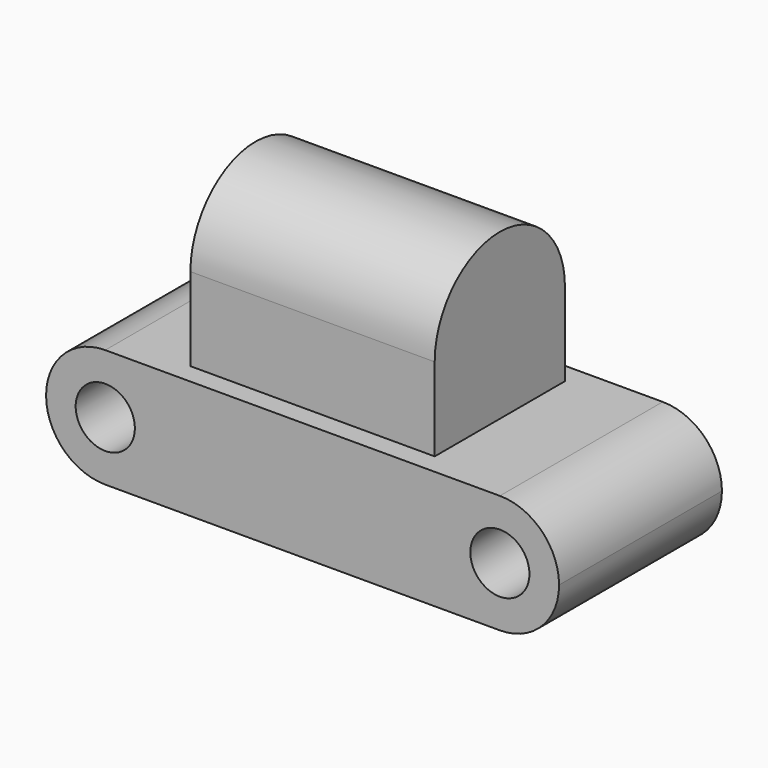
from build123d import *

# Parameters (mm, degrees)
F0_R     = 4.61757
F1_DEPTH = 31.75
F3_DEPTH = 12.9794
F4_R     = 12.697273
F5_DEPTH = 38.1


with BuildPart() as f1:
    # F0 (on Front) → F1 (new body)
    with BuildSketch(Plane.XZ):
        with BuildLine():
            Line((-61.54567, 0), (0, 0))
            ThreePointArc((0, 0), (-9.233622, 9.233622), (0, 18.467244))
            Line((0, 18.467244), (-61.54567, 18.467244))
            ThreePointArc((-61.54567, 18.467244), (-70.779292, 9.233622), (-61.54567, 0))
        make_face()
        with Locations((-61.54567, 9.233622)):
            Circle(F0_R, mode=Mode.SUBTRACT)
        with BuildLine():
            ThreePointArc((4.611006, 9.233622), (3.260474, 12.494096), (0, 13.844628))
            ThreePointArc((0, 13.844628), (-3.260474, 5.973148), (4.611006, 9.233622))
        make_face()
        with BuildLine():
            ThreePointArc((0, 18.467244), (-9.233622, 9.233622), (0, 0))
            ThreePointArc((0, 0), (6.529157, 2.704465), (9.233622, 9.233622))
            ThreePointArc((9.233622, 9.233622), (6.529157, 15.762779), (0, 18.467244))
        make_face()
        with BuildLine():
            ThreePointArc((4.611006, 9.233622), (-3.260474, 5.973148), (0, 13.844628))
            ThreePointArc((0, 13.844628), (3.260474, 12.494096), (4.611006, 9.233622))
        make_face(mode=Mode.SUBTRACT)
    extrude(amount=F1_DEPTH)

    # F2 (on face) → F3 (join)
    with BuildSketch(Plane.XY.offset(18.467244)):
        Polygon((-50.80482, -3.183325), (-50.80482, -15.875), (-50.80482, -28.577872), (-12.70482, -28.577872), (-12.70482, -3.183325), align=None)
    extrude(amount=F3_DEPTH)

    # F4 (on face) → F5 (join)
    with BuildSketch(Plane.YZ.offset(-12.70482)):
        with Locations((-15.880598, 31.446644)):
            Circle(F4_R)
    extrude(amount=-F5_DEPTH)


solid = f1.part
